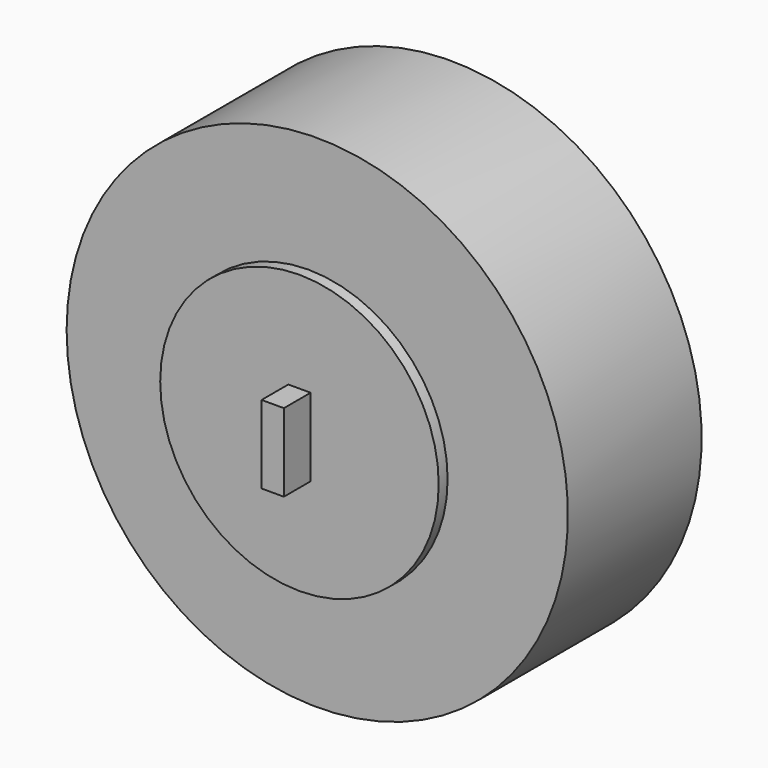
from build123d import *

# Parameters (mm, degrees)
F0_R     = 12.5
F1_DEPTH = 1
F2_W     = 2
F2_H     = 7
F3_DEPTH = 3
F4_R     = 5
F5_DEPTH = 1
F6_R     = 22.5
F7_DEPTH = 15


with BuildPart() as f1:
    # F0 (on Front) → F1 (new body)
    with BuildSketch(Plane.XZ):
        Circle(F0_R)
    extrude(amount=F1_DEPTH)

    # F2 (on face) → F3 (join)
    with BuildSketch(Plane.XZ.offset(1)):
        Rectangle(F2_W, F2_H)
    extrude(amount=F3_DEPTH)

    # F4 (on face) → F5 (join)
    with BuildSketch(Plane(origin=(0, 0, 0), x_dir=(-1, 0, 0), z_dir=(0, 1, 0))):
        Circle(F4_R)
    extrude(amount=F5_DEPTH)

    # F6 (on face) → F7 (join)
    with BuildSketch(Plane(origin=(0, 1, 0), x_dir=(-1, 0, 0), z_dir=(0, 1, 0))):
        Circle(F6_R)
    extrude(amount=F7_DEPTH)


solid = f1.part
